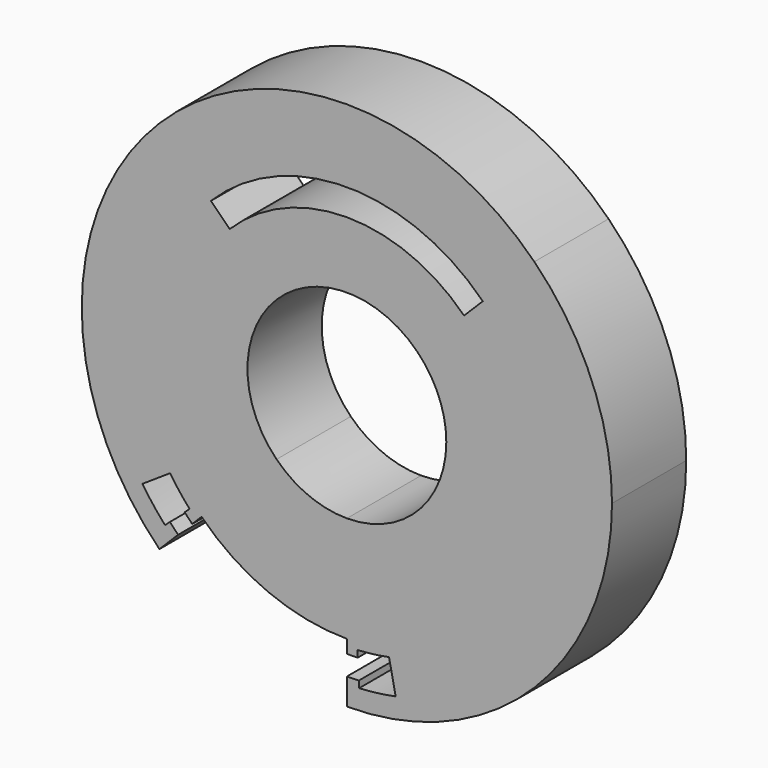
from build123d import *

# Parameters (mm, degrees)
F1_DEPTH = 7
F3_DEPTH = 6


with BuildPart() as f1:
    # F0 (on Front) → F1 (new body)
    with BuildSketch(Plane.XZ):
        with BuildLine():
            Line((-10.9601551084, 10.9601551084), (-14.1421356237, 14.1421356237))
            ThreePointArc((-14.1421356237, 14.1421356237), (-20, 0), (-14.1421356237, -14.1421356237))
            Line((-14.1421356237, -14.1421356237), (-10.9601551084, -10.9601551084))
            ThreePointArc((-10.9601551084, -10.9601551084), (-15.5, 0), (-10.9601551084, 10.9601551084))
        make_face()
        with BuildLine():
            ThreePointArc((-10.9601551084, -10.9601551084), (-5.9315932017, -14.3201327539), (0, -15.5))
            Line((0, -15.5), (0, -14.5))
            ThreePointArc((0, -14.5), (-5.5489097693, -13.3962532214), (-10.2530483272, -10.2530483272))
            Line((-10.2530483272, -10.2530483272), (-10.9601551084, -10.9601551084))
        make_face()
        with BuildLine():
            Line((10.9601551084, 10.9601551084), (14.1421356237, 14.1421356237))
            ThreePointArc((14.1421356237, 14.1421356237), (0, 20), (-14.1421356237, 14.1421356237))
            Line((-14.1421356237, 14.1421356237), (-10.9601551084, 10.9601551084))
            ThreePointArc((-10.9601551084, 10.9601551084), (0, 15.5), (10.9601551084, 10.9601551084))
        make_face()
        with BuildLine():
            ThreePointArc((0, -20), (14.1421356237, -14.1421356237), (20, 0))
            ThreePointArc((20, 0), (18.4775906502, 7.6536686473), (14.1421356237, 14.1421356237))
            Line((14.1421356237, 14.1421356237), (10.9601551084, 10.9601551084))
            ThreePointArc((10.9601551084, 10.9601551084), (14.3201327539, 5.9315932017), (15.5, 0))
            ThreePointArc((15.5, 0), (10.9601551084, -10.9601551084), (0, -15.5))
            Line((0, -15.5), (0, -20))
        make_face()
        with BuildLine():
            ThreePointArc((-10.2530483272, -10.2530483272), (-5.5489097693, -13.3962532214), (0, -14.5))
            Line((0, -14.5), (0, -12.5))
            ThreePointArc((0, -12.5), (-4.7835429046, -11.5484941564), (-8.8388347648, -8.8388347648))
            Line((-8.8388347648, -8.8388347648), (-10.2530483272, -10.2530483272))
        make_face()
        with BuildLine():
            ThreePointArc((-8.8388347648, -8.8388347648), (-4.7835429046, -11.5484941564), (0, -12.5))
            Line((0, -12.5), (0, -7.5))
            ThreePointArc((0, -7.5), (-2.8701257427, -6.9290964938), (-5.3033008589, -5.3033008589))
            Line((-5.3033008589, -5.3033008589), (-8.8388347648, -8.8388347648))
        make_face()
        with BuildLine():
            Line((10.2530483272, 10.2530483272), (10.9601551084, 10.9601551084))
            ThreePointArc((10.9601551084, 10.9601551084), (0, 15.5), (-10.9601551084, 10.9601551084))
            Line((-10.9601551084, 10.9601551084), (-10.2530483272, 10.2530483272))
            ThreePointArc((-10.2530483272, 10.2530483272), (0, 14.5), (10.2530483272, 10.2530483272))
        make_face()
        with BuildLine():
            Line((5.3033008589, 5.3033008589), (8.8388347648, 8.8388347648))
            ThreePointArc((8.8388347648, 8.8388347648), (0, 12.5), (-8.8388347648, 8.8388347648))
            Line((-8.8388347648, 8.8388347648), (-5.3033008589, 5.3033008589))
            ThreePointArc((-5.3033008589, 5.3033008589), (0, 7.5), (5.3033008589, 5.3033008589))
        make_face()
        with BuildLine():
            ThreePointArc((12.5, 0), (11.5484941564, 4.7835429046), (8.8388347648, 8.8388347648))
            Line((8.8388347648, 8.8388347648), (5.3033008589, 5.3033008589))
            ThreePointArc((5.3033008589, 5.3033008589), (6.9290964938, 2.8701257427), (7.5, 0))
            ThreePointArc((7.5, 0), (5.3033008589, -5.3033008589), (0, -7.5))
            Line((0, -7.5), (0, -12.5))
            ThreePointArc((0, -12.5), (8.8388347648, -8.8388347648), (12.5, 0))
        make_face()
        with BuildLine():
            ThreePointArc((14.5, 0), (13.3962532214, 5.5489097693), (10.2530483272, 10.2530483272))
            Line((10.2530483272, 10.2530483272), (8.8388347648, 8.8388347648))
            ThreePointArc((8.8388347648, 8.8388347648), (11.5484941564, 4.7835429046), (12.5, 0))
            ThreePointArc((12.5, 0), (8.8388347648, -8.8388347648), (0, -12.5))
            Line((0, -12.5), (0, -14.5))
            ThreePointArc((0, -14.5), (10.2530483272, -10.2530483272), (14.5, 0))
        make_face()
        with BuildLine():
            ThreePointArc((15.5, 0), (14.3201327539, 5.9315932017), (10.9601551084, 10.9601551084))
            Line((10.9601551084, 10.9601551084), (10.2530483272, 10.2530483272))
            ThreePointArc((10.2530483272, 10.2530483272), (13.3962532214, 5.5489097693), (14.5, 0))
            ThreePointArc((14.5, 0), (10.2530483272, -10.2530483272), (0, -14.5))
            Line((0, -14.5), (0, -15.5))
            ThreePointArc((0, -15.5), (10.9601551084, -10.9601551084), (15.5, 0))
        make_face()
        with BuildLine():
            Line((-5.3033008589, 5.3033008589), (-8.8388347648, 8.8388347648))
            ThreePointArc((-8.8388347648, 8.8388347648), (-12.5, 0), (-8.8388347648, -8.8388347648))
            Line((-8.8388347648, -8.8388347648), (-5.3033008589, -5.3033008589))
            ThreePointArc((-5.3033008589, -5.3033008589), (-7.5, 0), (-5.3033008589, 5.3033008589))
        make_face()
        with BuildLine():
            Line((-8.8388347648, 8.8388347648), (-10.2530483272, 10.2530483272))
            ThreePointArc((-10.2530483272, 10.2530483272), (-14.5, 0), (-10.2530483272, -10.2530483272))
            Line((-10.2530483272, -10.2530483272), (-8.8388347648, -8.8388347648))
            ThreePointArc((-8.8388347648, -8.8388347648), (-12.5, 0), (-8.8388347648, 8.8388347648))
        make_face()
        with BuildLine():
            Line((-10.2530483272, 10.2530483272), (-10.9601551084, 10.9601551084))
            ThreePointArc((-10.9601551084, 10.9601551084), (-15.5, 0), (-10.9601551084, -10.9601551084))
            Line((-10.9601551084, -10.9601551084), (-10.2530483272, -10.2530483272))
            ThreePointArc((-10.2530483272, -10.2530483272), (-14.5, 0), (-10.2530483272, 10.2530483272))
        make_face()
    extrude(amount=-F1_DEPTH)

    # F2 (on face) → F3 (cut)
    with BuildSketch(Plane.XZ):
        with BuildLine():
            Line((-12.7279220614, -12.7279220614), (-11.6672618896, -11.6672618896))
            ThreePointArc((-11.6672618896, -11.6672618896), (-11.9552968476, -11.3719337531), (-12.2358585772, -11.0694970472))
            Line((-12.2358585772, -11.0694970472), (-13.348209357, -12.0758149606))
            ThreePointArc((-13.348209357, -12.0758149606), (-13.0421420156, -12.4057459125), (-12.7279220614, -12.7279220614))
        make_face()
        with BuildLine():
            Line((-13.7189929502, -12.411254265), (-13.348209357, -12.0758149606))
            ThreePointArc((-13.348209357, -12.0758149606), (-14.216300698, -11.0406881336), (-15.004312577, -9.9433698559))
            Line((-15.004312577, -9.9433698559), (-15.4210990375, -10.2195745741))
            ThreePointArc((-15.4210990375, -10.2195745741), (-14.6111979396, -11.3473739151), (-13.7189929502, -12.411254265))
        make_face()
        with BuildLine():
            Line((-13.348209357, -12.0758149606), (-12.2358585772, -11.0694970472))
            ThreePointArc((-12.2358585772, -11.0694970472), (-13.0316089732, -10.1206307892), (-13.7539531956, -9.1147557012))
            Line((-13.7539531956, -9.1147557012), (-15.004312577, -9.9433698559))
            ThreePointArc((-15.004312577, -9.9433698559), (-14.216300698, -11.0406881336), (-13.348209357, -12.0758149606))
        make_face()
        with BuildLine():
            Line((-12.2358585772, -11.0694970472), (-11.865074984, -10.7340577427))
            ThreePointArc((-11.865074984, -10.7340577427), (-12.6367117316, -9.8139450077), (-13.3371667351, -8.838550983))
            Line((-13.3371667351, -8.838550983), (-13.7539531956, -9.1147557012))
            ThreePointArc((-13.7539531956, -9.1147557012), (-13.0316089732, -10.1206307892), (-12.2358585772, -11.0694970472))
        make_face()
        with BuildLine():
            ThreePointArc((0.825, -16.4793620932), (-5.9310823475, -15.3971511062), (-11.6672618896, -11.6672618896))
            Line((-11.6672618896, -11.6672618896), (-12.7279220614, -12.7279220614))
            ThreePointArc((-12.7279220614, -12.7279220614), (-6.4702716518, -16.7968921158), (0.9, -17.9774859199))
            Line((0.9, -17.9774859199), (0.825, -16.4793620932))
        make_face()
        with BuildLine():
            ThreePointArc((3.2806610289, -16.1705678074), (2.0586285723, -16.3710735262), (0.825, -16.4793620932))
            Line((0.825, -16.4793620932), (0.9, -17.9774859199))
            ThreePointArc((0.9, -17.9774859199), (2.2457766244, -17.8593529377), (3.5789029407, -17.6406194262))
            Line((3.5789029407, -17.6406194262), (3.2806610289, -16.1705678074))
        make_face()
        with BuildLine():
            ThreePointArc((3.1812470584, -15.6805506011), (1.9962458883, -15.8749803891), (0.8, -15.9799874844))
            Line((0.8, -15.9799874844), (0.825, -16.4793620932))
            ThreePointArc((0.825, -16.4793620932), (2.0586285723, -16.3710735262), (3.2806610289, -16.1705678074))
            Line((3.2806610289, -16.1705678074), (3.1812470584, -15.6805506011))
        make_face()
        with BuildLine():
            ThreePointArc((3.5789029407, -17.6406194262), (2.2457766244, -17.8593529377), (0.9, -17.9774859199))
            Line((0.9, -17.9774859199), (0.925, -18.4768605288))
            ThreePointArc((0.925, -18.4768605288), (2.3081593084, -18.3554460749), (3.6783169112, -18.1306366325))
            Line((3.6783169112, -18.1306366325), (3.5789029407, -17.6406194262))
        make_face()
    extrude(amount=-F3_DEPTH, mode=Mode.SUBTRACT)


solid = f1.part
